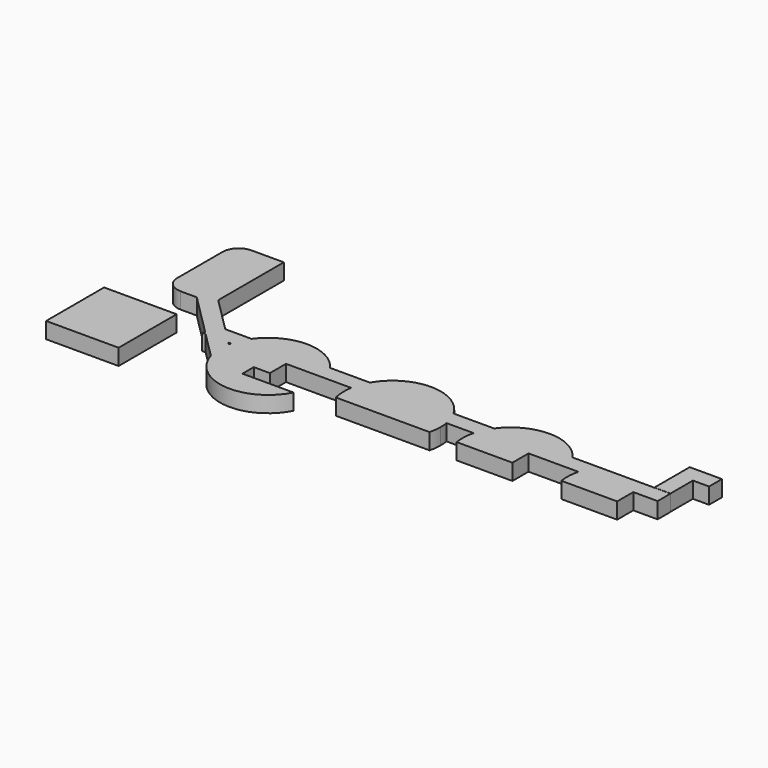
from build123d import *

# Parameters (mm, degrees)
F0_W     = 114.3
F0_H     = 114.3
F1_DEPTH = 25.4
F0_W_2   = 25.4
F0_H_2   = 25.4
F0_H_3   = 6.35


with BuildPart() as f1:
    # F0 (on Top) → F1 (new body)
    with BuildSketch(Plane.XY):
        with Locations((-155.8617118359, 57.15)):
            Rectangle(F0_W, F0_H)
    extrude(amount=F1_DEPTH)


with BuildPart() as f1b:
    # F0 (on Top) → F1, piece 2 (new body)
    with BuildSketch(Plane.XY):
        with BuildLine():
            ThreePointArc((549.7351123646, 95.25), (547.3846292276, 79.4463630577), (548.3812318645, 63.5))
            Line((548.3812318645, 63.5), (610.8154451098, 63.5))
            Line((610.8154451098, 63.5), (610.8154451098, 88.9))
            Line((610.8154451098, 88.9), (610.8154451098, 95.25))
            Line((610.8154451098, 95.25), (549.7351123646, 95.25))
        make_face()
        with BuildLine():
            ThreePointArc((384.6351123646, 95.25), (382.2846292276, 79.4463630577), (383.2812318645, 63.5))
            Line((383.2812318645, 63.5), (445.7154451098, 63.5))
            Line((445.7154451098, 63.5), (445.7154451098, 88.9))
            Line((445.7154451098, 88.9), (445.7154451098, 95.25))
            Line((445.7154451098, 95.25), (384.6351123646, 95.25))
        make_face()
        with BuildLine():
            ThreePointArc((2.4196672547, 95.25), (1.9986775513, 93.5379279863), (1.6174108262, 91.8165742762))
            ThreePointArc((1.6174108262, 91.8165742762), (0.0690439068, 72.956926715), (3.2156808044, 54.2972798137))
            ThreePointArc((3.2156808044, 54.2972798137), (69.1514990582, 0.3266935314), (143.9007431471, 41.22787714))
            Line((143.9007431471, 41.22787714), (63.5, 41.22787714))
            Line((63.5, 41.22787714), (63.5, 63.5))
            Line((63.5, 63.5), (63.5, 88.9))
            Line((63.5, 88.9), (63.5, 95.25))
            Line((63.5, 95.25), (2.4196672547, 95.25))
        make_face()
        Polygon((-107.5870393819, 165.1), (-41.0950939232, 98.6080545413), (-27.2160148976, 120.65), (-38.3374551225, 131.7714402249), (-40.5287286181, 133.9627137205), (-54.8269536405, 148.2609387429), (-60.6505539628, 154.0845390652), (-71.6660148976, 165.1), (-82.1870393819, 175.6210244843), (-82.1870393819, 304.8), (-107.5870393819, 304.8), align=None)
        with BuildLine():
            Line((332.6911357684, 120.65), (200.7088642316, 120.65))
            ThreePointArc((200.7088642316, 120.65), (195.0035493657, 108.3581182274), (191.5657867546, 95.25))
            Line((191.5657867546, 95.25), (254, 95.25))
            Line((254, 95.25), (279.4, 95.25))
            Line((279.4, 95.25), (341.8342132454, 95.25))
            ThreePointArc((341.8342132454, 95.25), (338.3964506343, 108.3581182274), (332.6911357684, 120.65))
        make_face()
        with BuildLine():
            Line((674.5907105505, 120.65), (561.6233010203, 120.65))
            ThreePointArc((561.6233010203, 120.65), (554.5006261025, 108.5016215905), (549.7351123646, 95.25))
            Line((549.7351123646, 95.25), (610.8154451098, 95.25))
            Line((610.8154451098, 95.25), (636.2154451098, 95.25))
            Line((636.2154451098, 95.25), (674.5907105505, 95.25))
            Line((674.5907105505, 95.25), (674.5907105505, 120.65))
        make_face()
        with BuildLine():
            ThreePointArc((191.5657867546, 95.25), (190.5691841177, 79.3036369423), (192.9196672547, 63.5))
            Line((192.9196672547, 63.5), (340.4803327453, 63.5))
            ThreePointArc((340.4803327453, 63.5), (342.2926628556, 72.9484729128), (342.9, 82.55))
            ThreePointArc((342.9, 82.55), (342.6330858365, 88.9223210333), (341.8342132454, 95.25))
            Line((341.8342132454, 95.25), (279.4, 95.25))
            Line((279.4, 95.25), (279.4, 69.85))
            Line((279.4, 69.85), (254, 69.85))
            Line((254, 69.85), (254, 95.25))
            Line((254, 95.25), (191.5657867546, 95.25))
        make_face()
        with BuildLine():
            Line((396.5233010203, 120.65), (332.6911357684, 120.65))
            ThreePointArc((332.6911357684, 120.65), (338.3964506343, 108.3581182274), (341.8342132454, 95.25))
            Line((341.8342132454, 95.25), (384.6351123646, 95.25))
            ThreePointArc((384.6351123646, 95.25), (389.4006261025, 108.5016215905), (396.5233010203, 120.65))
        make_face()
        with BuildLine():
            Line((561.6233010203, 120.65), (520.3075891994, 120.65))
            ThreePointArc((520.3075891994, 120.65), (527.4302641172, 108.5016215905), (532.1957778551, 95.25))
            Line((532.1957778551, 95.25), (549.7351123646, 95.25))
            ThreePointArc((549.7351123646, 95.25), (554.5006261025, 108.5016215905), (561.6233010203, 120.65))
        make_face()
        with BuildLine():
            Line((-132.9870393819, 165.1), (-107.5870393819, 165.1))
            Line((-107.5870393819, 165.1), (-107.5870393819, 304.8))
            Line((-107.5870393819, 304.8), (-132.9870393819, 304.8))
            ThreePointArc((-132.9870393819, 304.8), (-150.947551624, 297.3605122421), (-158.3870393819, 279.4))
            Line((-158.3870393819, 279.4), (-158.3870393819, 190.5))
            ThreePointArc((-158.3870393819, 190.5), (-150.947551624, 172.5394877579), (-132.9870393819, 165.1))
        make_face()
        with BuildLine():
            Line((200.7088642316, 120.65), (138.0921440895, 120.65))
            ThreePointArc((138.0921440895, 120.65), (145.2148190074, 108.5016215905), (149.9803327453, 95.25))
            Line((149.9803327453, 95.25), (191.5657867546, 95.25))
            ThreePointArc((191.5657867546, 95.25), (195.0035493657, 108.3581182274), (200.7088642316, 120.65))
        make_face()
        with BuildLine():
            ThreePointArc((14.3078559105, 120.65), (7.1851809926, 108.5016215905), (2.4196672547, 95.25))
            Line((2.4196672547, 95.25), (63.5, 95.25))
            Line((63.5, 95.25), (88.9, 95.25))
            Line((88.9, 95.25), (149.9803327453, 95.25))
            ThreePointArc((149.9803327453, 95.25), (145.2148190074, 108.5016215905), (138.0921440895, 120.65))
            Line((138.0921440895, 120.65), (14.3078559105, 120.65))
        make_face()
        with BuildLine():
            ThreePointArc((332.6911357684, 120.65), (266.7, 158.75), (200.7088642316, 120.65))
            Line((200.7088642316, 120.65), (332.6911357684, 120.65))
        make_face()
        with BuildLine():
            ThreePointArc((520.3075891994, 120.65), (458.4154451098, 152.4), (396.5233010203, 120.65))
            Line((396.5233010203, 120.65), (520.3075891994, 120.65))
        make_face()
        with BuildLine():
            ThreePointArc((138.0921440895, 120.65), (76.2, 152.4), (14.3078559105, 120.65))
            Line((14.3078559105, 120.65), (138.0921440895, 120.65))
        make_face()
        with BuildLine():
            Line((520.3075891994, 120.65), (396.5233010203, 120.65))
            ThreePointArc((396.5233010203, 120.65), (389.4006261025, 108.5016215905), (384.6351123646, 95.25))
            Line((384.6351123646, 95.25), (445.7154451098, 95.25))
            Line((445.7154451098, 95.25), (471.1154451098, 95.25))
            Line((471.1154451098, 95.25), (532.1957778551, 95.25))
            ThreePointArc((532.1957778551, 95.25), (527.4302641172, 108.5016215905), (520.3075891994, 120.65))
        make_face()
        with BuildLine():
            Line((-1.8160148976, 95.25), (2.4196672547, 95.25))
            ThreePointArc((2.4196672547, 95.25), (7.1851809926, 108.5016215905), (14.3078559105, 120.65))
            Line((14.3078559105, 120.65), (-27.2160148976, 120.65))
            Line((-27.2160148976, 120.65), (-41.0950939232, 98.6080545413))
            Line((-41.0950939232, 98.6080545413), (-37.7370393819, 95.25))
            Line((-37.7370393819, 95.25), (-1.8160148976, 95.25))
        make_face()
        with BuildLine():
            ThreePointArc((3.2156808044, 54.2972798137), (0.0690439068, 72.956926715), (1.6174108262, 91.8165742762))
            Line((1.6174108262, 91.8165742762), (-1.8160148976, 95.25))
            Line((-1.8160148976, 95.25), (-37.7370393819, 95.25))
            Line((-37.7370393819, 95.25), (3.2156808044, 54.2972798137))
        make_face()
        Polygon((-43.2095490396, 95.25), (-37.7370393819, 95.25), (-41.0950939232, 98.6080545413), align=None)
        with Locations((266.7, 82.55)):
            Rectangle(F0_W_2, F0_H_2)
        with Locations((76.2, 76.2)):
            Rectangle(F0_W_2, F0_H_2)
        with Locations((458.4154451098, 76.2)):
            Rectangle(F0_W_2, F0_H_2)
        with Locations((458.4154451098, 92.075)):
            Rectangle(F0_W_2, F0_H_3)
        with Locations((623.5154451098, 76.2)):
            Rectangle(F0_W_2, F0_H_2)
        with Locations((76.2, 92.075)):
            Rectangle(F0_W_2, F0_H_3)
        with Locations((623.5154451098, 92.075)):
            Rectangle(F0_W_2, F0_H_3)
    extrude(amount=F1_DEPTH)


with BuildPart() as f1c:
    # F0 (on Top) → F1, piece 3 (new body)
    with BuildSketch(Plane.XY):
        with BuildLine():
            ThreePointArc((648.9154451098, 148.0420489686), (662.3510594962, 141.7609262841), (674.3154451098, 132.9961266285))
            Line((674.3154451098, 132.9961266285), (674.3154451098, 165.1))
            Line((674.3154451098, 165.1), (674.3154451098, 190.5))
            Line((674.3154451098, 190.5), (648.9154451098, 190.5))
            Line((648.9154451098, 190.5), (648.9154451098, 148.0420489686))
        make_face()
        with BuildLine():
            Line((674.3154451098, 120.9446117282), (674.3154451098, 132.9961266285))
            ThreePointArc((674.3154451098, 132.9961266285), (662.3510594962, 141.7609262841), (648.9154451098, 148.0420489686))
            Line((648.9154451098, 148.0420489686), (648.9154451098, 120.9446117282))
            Line((648.9154451098, 120.9446117282), (674.3154451098, 120.9446117282))
        make_face()
        with Locations((687.0154451098, 177.8)):
            Rectangle(F0_W_2, F0_H_2)
    extrude(amount=F1_DEPTH)


solid = Compound([f1.part, f1b.part, f1c.part])
